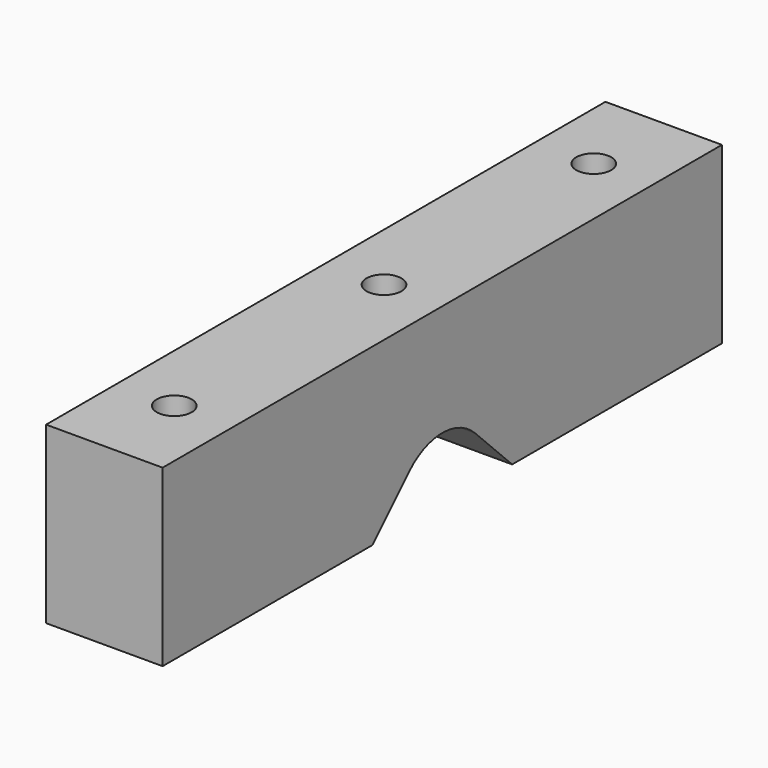
from build123d import *

# Parameters (mm, degrees)
F1_DEPTH = 10
F2_R     = 1.5
F3_DEPTH = 15.001


with BuildPart() as f1:
    # F0 (on Right) → F1 (new body)
    with BuildSketch(Plane.YZ):
        with BuildLine():
            Line((30, 15), (-30, 15))
            Line((-30, 15), (-30, 0))
            Line((-30, 0), (-7.5, 0))
            Line((-7.5, 0), (-3.5355339059, 3.9644660941))
            ThreePointArc((-3.5355339059, 3.9644660941), (0, 5.4289321881), (3.5355339059, 3.9644660941))
            Line((3.5355339059, 3.9644660941), (7.5, 0))
            Line((7.5, 0), (30, 0))
            Line((30, 0), (30, 15))
        make_face()
    extrude(amount=F1_DEPTH)

    # F2 (on face) → F3 (cut, through all)
    with BuildSketch(Plane.XY.offset(15)):
        with Locations((5, 0)):
            Circle(F2_R)
        with Locations((5, 22.5)):
            Circle(F2_R)
        with Locations((5, -22.5)):
            Circle(F2_R)
    extrude(amount=-F3_DEPTH, mode=Mode.SUBTRACT)


solid = f1.part
